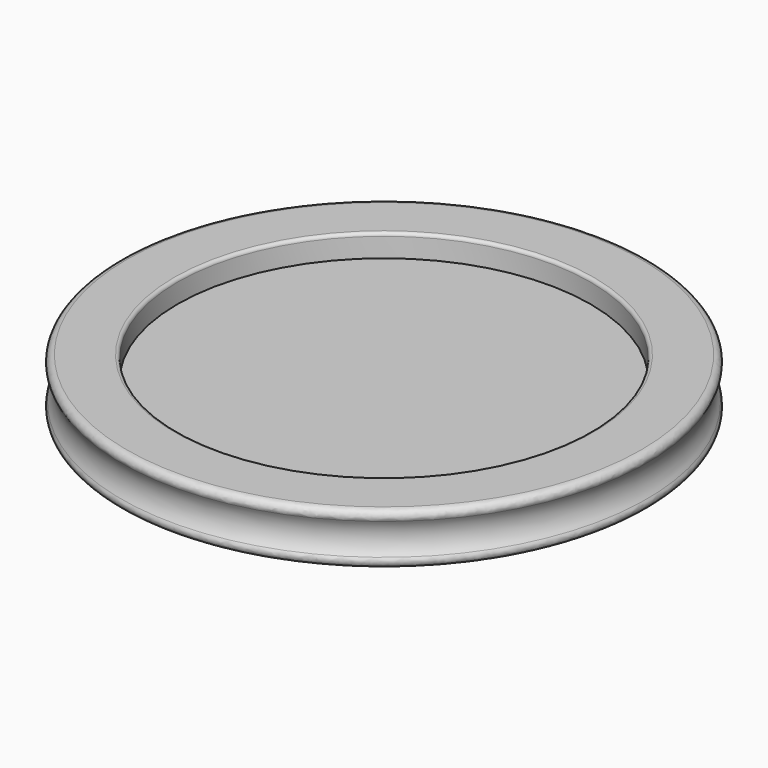
from build123d import *

# Parameters (mm, degrees)
F2_R = 0.508
F3_R = 0.254


with BuildPart() as f1:
    # F0 (on Front) → F1 (revolve)
    with BuildSketch(Plane.XZ):
        with BuildLine():
            Line((-21.59, 0), (0, 0))
            Line((0, 0), (0, 2.286))
            Line((0, 2.286), (-16.256, 2.286))
            Line((-16.256, 2.286), (-16.256, 4.064))
            Line((-16.256, 4.064), (-21.59, 4.064))
            ThreePointArc((-21.59, 4.064), (-20.32, 2.032), (-21.59, 0))
        make_face()
    revolve(axis=Axis((0, 0, 1.143), (0, 0, 1)))

    # F2
    f2_edges = [f1.edges().sort_by_distance(p)[0] for p in [
        (21.59, 0, 4.064),
        (21.59, 0, 0),
    ]]
    fillet(f2_edges, radius=F2_R)

    # F3
    f3_edges = [f1.edges().sort_by_distance(p)[0] for p in [
        (16.256, 0, 4.064),
    ]]
    fillet(f3_edges, radius=F3_R)


solid = f1.part
